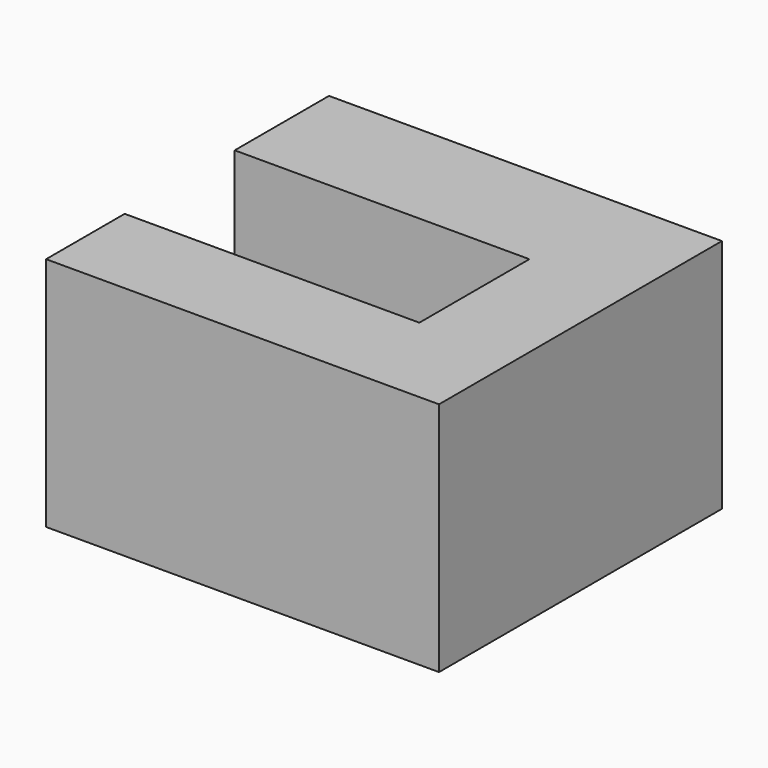
from build123d import *

# Parameters (mm, degrees)
F0_W     = 15
F0_H     = 6
F0_W_2   = 5
F0_H_2   = 5
F1_DEPTH = 12


with BuildPart() as f1:
    # F0 (on Top) → F1 (new body)
    with BuildSketch(Plane.XY):
        with Locations((-12.5, 15)):
            Rectangle(F0_W, F0_H)
        with Locations((-2.5, 15)):
            Rectangle(F0_W_2, F0_H)
        Polygon((0, 12), (-5, 12), (-5, 5), (-5, 0), (0, 0), align=None)
        with Locations((-12.5, 2.5)):
            Rectangle(F0_W, F0_H_2)
    extrude(amount=F1_DEPTH)


solid = f1.part
